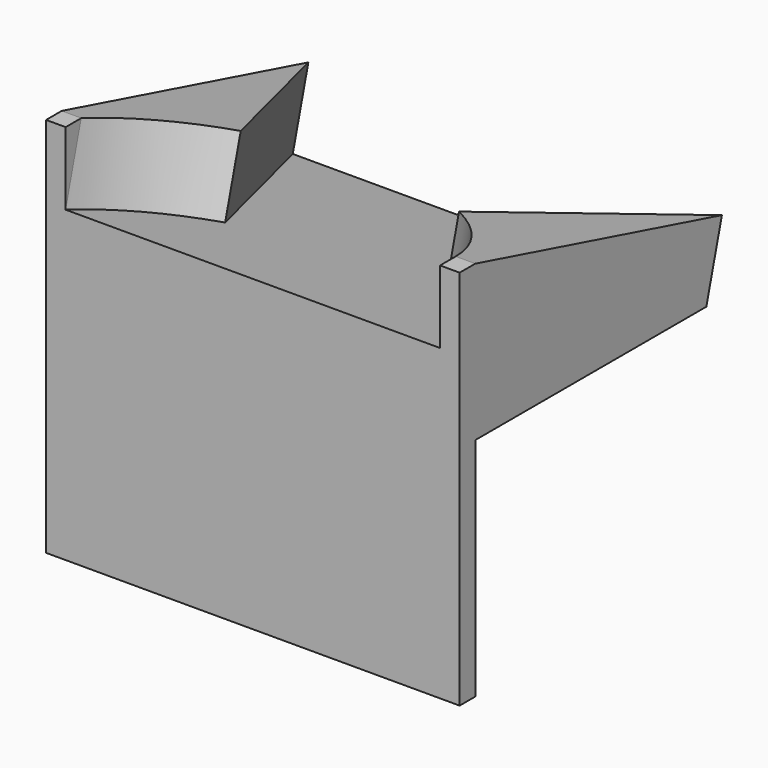
from build123d import *

# Parameters (mm, degrees)
F1_DEPTH = 5
F2_ANGLE = -15
F4_DEPTH = 27.4701582612
F5_W     = 27.4701582612
F5_H     = 15
F6_DEPTH = 1.3
F7_W     = 1.3
F7_H     = 4.8296291314


with BuildPart() as f1:
    # F0 (on Top) → F1 (new body)
    with BuildSketch(Plane.XY):
        with BuildLine():
            ThreePointArc((-12.4350791306, 0), (-10.4463192127, 3.9472350356), (-7.25, 7))
            Line((-7.25, 7), (-13.7350791306, 21.2054114289))
            Line((-13.7350791306, 21.2054114289), (-13.7350791306, 0))
            Line((-13.7350791306, 0), (-12.4350791306, 0))
        make_face()
    extrude(amount=F1_DEPTH)


with BuildPart() as f1b:
    # F0 (on Top) → F1, piece 2 (new body)
    with BuildSketch(Plane.XY):
        with BuildLine():
            Line((13.7350791306, 0), (13.7350791306, 21.2054114289))
            Line((13.7350791306, 21.2054114289), (7.25, 7))
            ThreePointArc((7.25, 7), (10.4463192127, 3.9472350356), (12.4350791306, 0))
            Line((12.4350791306, 0), (13.7350791306, 0))
        make_face()
    extrude(amount=F1_DEPTH)


with BuildPart() as f1_1:
    # F2: moved
    add(f1.part.rotate(Axis((0.65, 0, 0), (1, 0, 0)), F2_ANGLE))



with BuildPart() as f1b_1:
    # F2: moved
    add(f1b.part.rotate(Axis((0.65, 0, 0), (1, 0, 0)), F2_ANGLE))


with BuildPart() as f1_2:
    add(f1_1.part)

    add(f1b_1.part)  # F4 merges F1b
    # F3 (on face) → F4 (join, through all)
    with BuildSketch(Plane.YZ.offset(13.7350791306)):
        Polygon((20.4828545563, -5.488364337), (0, 0), (0, -5.488364337), align=None)
    extrude(amount=-F4_DEPTH)

    # F5 (on face) → F6 (join)
    with BuildSketch(Plane.XZ):
        with Locations((0, -12.988364337)):
            Rectangle(F5_W, F5_H)
    extrude(amount=-F6_DEPTH)

    # F7 (on face) → F8 (join, up to the next surface of F1)
    with BuildSketch(Plane.XZ):
        with Locations((-13.0850791306, 2.4148145657)):
            Rectangle(F7_W, F7_H)
        with Locations((13.0850791306, 2.4148145657)):
            Rectangle(F7_W, F7_H)
    extrude(until=Until.NEXT, dir=(0, 1, 0))


solid = f1_2.part
